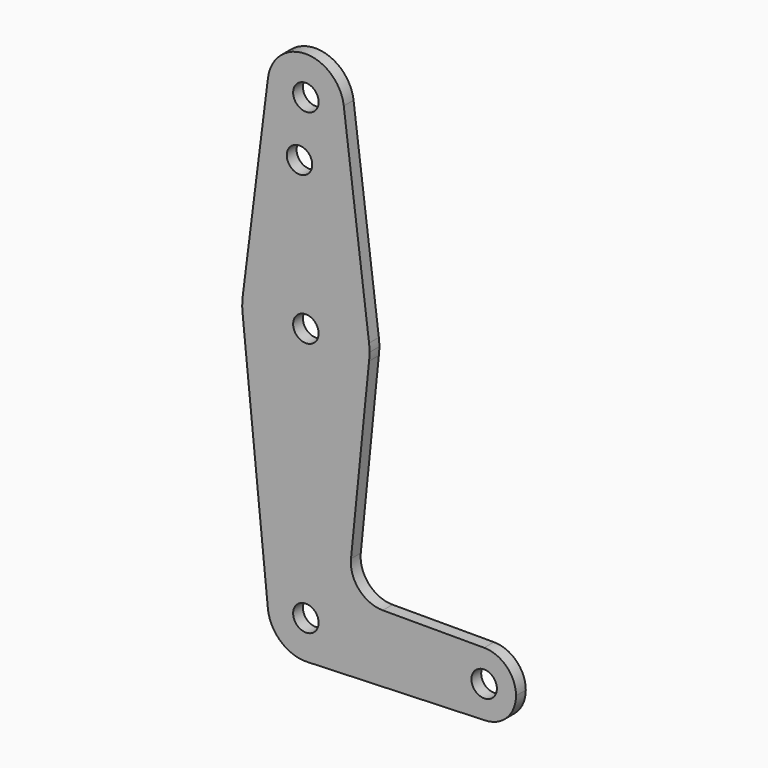
from build123d import *

# Parameters (mm, degrees)
F0_R     = 3.175
F1_DEPTH = 3.048


with BuildPart() as f1:
    # F0 (on Front) → F1 (new body)
    with BuildSketch(Plane.XZ):
        with BuildLine():
            ThreePointArc((0.3401787443, -9.5189234382), (6.8544083457, -6.6138272755), (9.525, 0))
            ThreePointArc((9.525, 0), (-0.4768479324, 9.5130563464), (-9.4772553384, -0.9525))
            ThreePointArc((-9.4772553384, -0.9525), (-6.2623833165, -7.176919966), (0.3401787443, -9.5189234382))
        make_face()
        Circle(F0_R, mode=Mode.SUBTRACT)
        with BuildLine():
            ThreePointArc((-9.4772553384, -0.9525), (-0.4768479324, 9.5130563464), (9.525, 0))
            ThreePointArc((9.525, 0), (6.8544083457, -6.6138272755), (0.3401787443, -9.5189234382))
            Line((0.3401787443, -9.5189234382), (44.7334821429, -7.9324362036))
            ThreePointArc((44.7334821429, -7.9324362036), (36.5137660501, -0.1417636831), (44.45, 7.9375))
            Line((44.45, 7.9375), (19.1585851955, 7.9375))
            ThreePointArc((19.1585851955, 7.9375), (13.2627724895, 10.5543077796), (11.2481724716, 16.6820869195))
            Line((11.2481724716, 16.6820869195), (15.7504882737, 61.515625))
            ThreePointArc((15.7504882737, 61.515625), (0, 47.625), (-15.7504882737, 61.515625))
            ThreePointArc((-15.7504882737, 61.515625), (-15.7742051276, 61.7139211681), (-15.7954255641, 61.9125))
            Line((-15.7954255641, 61.9125), (-9.4772553384, -0.9525))
        make_face()
        with BuildLine():
            ThreePointArc((-15.7504882737, 65.484375), (-15.8737438155, 63.6997054867), (-15.7954255641, 61.9125))
            ThreePointArc((-15.7954255641, 61.9125), (-15.7742051276, 61.7139211681), (-15.7504882737, 61.515625))
            Line((-15.7504882737, 61.515625), (-15.7504882737, 65.484375))
        make_face()
        with BuildLine():
            ThreePointArc((44.45, 7.9375), (36.5137660501, -0.1417636831), (44.7334821429, -7.9324362036))
            ThreePointArc((44.7334821429, -7.9324362036), (50.1620069047, -5.5115227815), (52.3875, 0))
            ThreePointArc((52.3875, 0), (50.0626600757, 5.6126600757), (44.45, 7.9375))
        make_face()
        with Locations((44.45, 0)):
            Circle(F0_R, mode=Mode.SUBTRACT)
        with BuildLine():
            Line((-9.4502929642, 115.490625), (-15.7504882737, 65.484375))
            ThreePointArc((-15.7504882737, 65.484375), (0, 79.375), (15.7504882737, 65.484375))
            Line((15.7504882737, 65.484375), (9.4502929642, 115.490625))
            ThreePointArc((9.4502929642, 115.490625), (9.5063048942, 114.896483242), (9.525, 114.3))
            ThreePointArc((9.525, 114.3), (-0.596483242, 104.7936951058), (-9.4502929642, 115.490625))
        make_face()
        with Locations((-1.5875, 100.0252)):
            Circle(F0_R, mode=Mode.SUBTRACT)
        with BuildLine():
            ThreePointArc((15.7504882737, 65.484375), (0, 79.375), (-15.7504882737, 65.484375))
            Line((-15.7504882737, 65.484375), (-15.7504882737, 61.515625))
            ThreePointArc((-15.7504882737, 61.515625), (0, 47.625), (15.7504882737, 61.515625))
            Line((15.7504882737, 61.515625), (15.7504882737, 65.484375))
        make_face()
        with Locations((0, 63.5)):
            Circle(F0_R, mode=Mode.SUBTRACT)
        with BuildLine():
            ThreePointArc((15.875, 63.5), (15.8438414904, 64.4941387366), (15.7504882737, 65.484375))
            Line((15.7504882737, 65.484375), (15.7504882737, 61.515625))
            ThreePointArc((15.7504882737, 61.515625), (15.8438414904, 62.5058612634), (15.875, 63.5))
        make_face()
        with BuildLine():
            ThreePointArc((9.4502929642, 115.490625), (0, 123.825), (-9.4502929642, 115.490625))
            ThreePointArc((-9.4502929642, 115.490625), (-0.596483242, 104.7936951058), (9.525, 114.3))
            ThreePointArc((9.525, 114.3), (9.5063048942, 114.896483242), (9.4502929642, 115.490625))
        make_face()
        with Locations((0, 114.3)):
            Circle(F0_R, mode=Mode.SUBTRACT)
    extrude(amount=F1_DEPTH)


solid = f1.part
